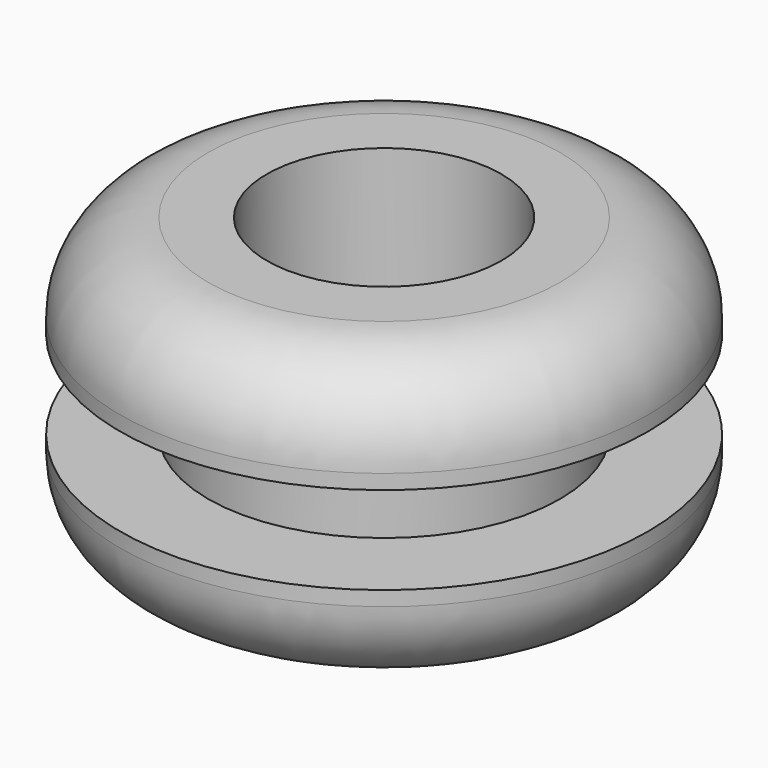
from build123d import *

# Parameters (mm, degrees)
F2_R     = 2
F3_DEPTH = 5


with BuildPart() as f1:
    # F0 (on Front) → F1 (revolve)
    with BuildSketch(Plane.XZ):
        with BuildLine():
            Line((0, 2.5), (0, 0))
            Line((0, 0), (0, -2.5))
            Line((0, -2.5), (3, -2.5))
            ThreePointArc((3, -2.5), (4.06066, -2.06066), (4.5, -1))
            Line((4.5, -1), (4.5, -0.75))
            Line((4.5, -0.75), (3, -0.75))
            Line((3, -0.75), (3, 0.75))
            Line((3, 0.75), (4.5, 0.75))
            Line((4.5, 0.75), (4.5, 1))
            ThreePointArc((4.5, 1), (4.06066, 2.06066), (3, 2.5))
            Line((3, 2.5), (0, 2.5))
        make_face()
    revolve(axis=Axis((0, 0, 1.25), (0, 0, 1)))

    # F2 (on face) → F3 (cut, through all)
    with BuildSketch(Plane.XY.offset(2.5)):
        Circle(F2_R)
    extrude(amount=-F3_DEPTH, mode=Mode.SUBTRACT)


solid = f1.part
